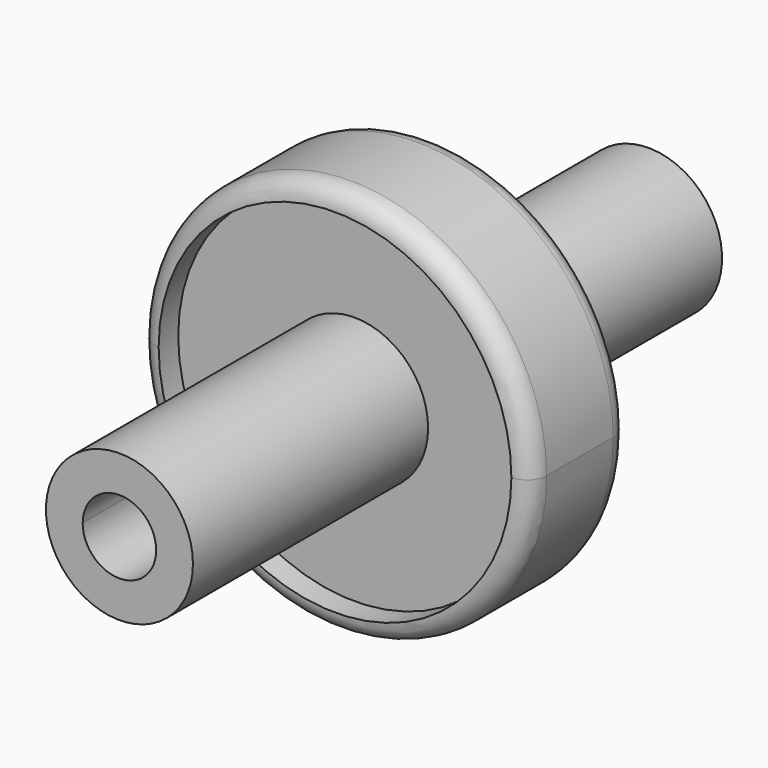
from build123d import *

# Parameters (mm, degrees)
F0_R         = 50.8
F1_DEPTH     = 31.75
F2_R         = 5.08
F3_R         = 9.525
F4_DEPTH     = 31.751
F1_FACE_R    = 45.72
F1_FACE_R_2  = 9.525
F5_DEPTH     = 6.35
F1_FACE1_R   = 45.72
F1_FACE1_R_2 = 9.525
F6_DEPTH     = 6.35
F7_R         = 19.05
F7_R_2       = 9.525
F8_DEPTH     = 76.2
F10_R        = 19.05
F11_DEPTH    = 76.2


with BuildPart() as f1:
    # F0 (on Front) → F1 (new body)
    with BuildSketch(Plane.XZ):
        Circle(F0_R)
    extrude(amount=F1_DEPTH)

    # F2
    f2_edges = [f1.edges().sort_by_distance(p)[0] for p in [
        (-50.8, -31.75, 0),
        (-50.8, 0, 0),
    ]]
    fillet(f2_edges, radius=F2_R)

    # F3 (on face) → F4 (cut, through all)
    with BuildSketch(Plane.XZ.offset(31.75)):
        Circle(F3_R)
    extrude(amount=-F4_DEPTH, mode=Mode.SUBTRACT)

    # F1_face (on face) → F5 (cut)
    with BuildSketch(Plane.XZ.offset(31.75)):
        Circle(F1_FACE_R)
        Circle(F1_FACE_R_2, mode=Mode.SUBTRACT)
    extrude(amount=-F5_DEPTH, mode=Mode.SUBTRACT)

    # F1_face1 (on face) → F6 (cut)
    with BuildSketch(Plane(origin=(0, 0, 0), x_dir=(1, 0, 0), z_dir=(0, 1, 0))):
        Circle(F1_FACE1_R)
        Circle(F1_FACE1_R_2, mode=Mode.SUBTRACT)
    extrude(amount=-F6_DEPTH, mode=Mode.SUBTRACT)

    # F7 (on face) → F8 (join)
    with BuildSketch(Plane.XZ.offset(25.4)):
        Circle(F7_R)
        Circle(F7_R_2, mode=Mode.SUBTRACT)
    extrude(amount=F8_DEPTH)

    # F9: F1 across plane


with BuildPart() as f1_1:
    add(f1.part)
    add(f1.part.mirror(Plane.YZ))

    # F10 (on face) → F11 (join)
    with BuildSketch(Plane(origin=(0, -6.35, 0), x_dir=(-1, 0, 0), z_dir=(0, 1, 0))):
        Circle(F10_R)
        with BuildLine():
            ThreePointArc((-9.525, 0), (0, 9.525), (9.525, 0))
            ThreePointArc((9.525, 0), (0, -9.525), (-9.525, 0))
        make_face(mode=Mode.SUBTRACT)
    extrude(amount=F11_DEPTH)


solid = f1_1.part
